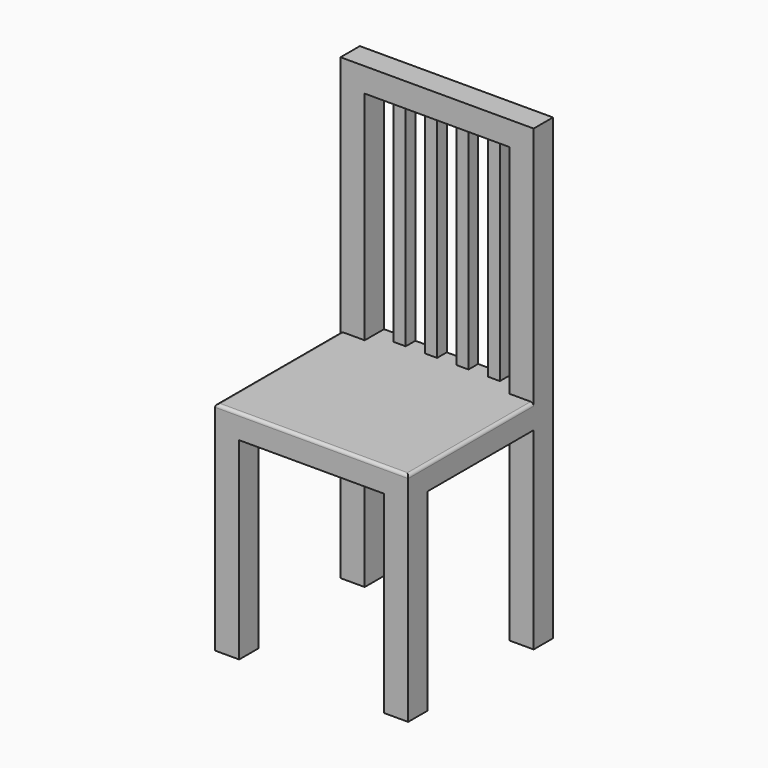
from build123d import *

# Parameters (mm, degrees)
F0_W     = 50.8
F0_H     = 50.8
F1_DEPTH = 406.4
F2_W     = 50.8
F2_H     = 50.8
F3_DEPTH = 50.8
F4_W     = 50.8
F4_H     = 50.8
F4_W_2   = 25.4
F4_H_2   = 25.4
F5_DEPTH = 508
F6_W     = 50.8
F6_H     = 50.8
F7_DEPTH = 355.6
F8_R     = 6.35


with BuildPart() as f1:
    # F0 (on Top) → F1 (new body)
    with BuildSketch(Plane.XY):
        with Locations((-25.4, 25.4)):
            Rectangle(F0_W, F0_H)
        with Locations((330.2, 25.4)):
            Rectangle(F0_W, F0_H)
        with Locations((330.2, -304.8)):
            Rectangle(F0_W, F0_H)
        with Locations((-25.4, -304.8)):
            Rectangle(F0_W, F0_H)
    extrude(amount=F1_DEPTH)

    # F2 (on face) → F3 (join)
    with BuildSketch(Plane.XY.offset(406.4)):
        Polygon((304.8, 0), (304.8, 50.8), (-50.8, 50.8), (-50.8, -330.2), (355.6, -330.2), (355.6, 0), align=None)
        with Locations((330.2, 25.4)):
            Rectangle(F2_W, F2_H)
    extrude(amount=F3_DEPTH)

    # F4 (on face) → F5 (join)
    with BuildSketch(Plane.XY.offset(457.2)):
        with Locations((-25.4, 25.4)):
            Rectangle(F4_W, F4_H)
        with Locations((53.34, 38.1)):
            Rectangle(F4_W_2, F4_H_2)
        with Locations((119.38, 38.1)):
            Rectangle(F4_W_2, F4_H_2)
        with Locations((185.42, 38.1)):
            Rectangle(F4_W_2, F4_H_2)
        with Locations((251.46, 38.1)):
            Rectangle(F4_W_2, F4_H_2)
        with Locations((330.2, 25.4)):
            Rectangle(F4_W, F4_H)
    extrude(amount=F5_DEPTH)

    # F6 (on face) → F7 (join)
    with BuildSketch(Plane.YZ):
        with Locations((25.4, 939.8)):
            Rectangle(F6_W, F6_H)
    extrude(amount=F7_DEPTH)

    # F8
    f8_edges = [f1.edges().sort_by_distance(p)[0] for p in [
        (-50.8, -165.1, 457.2),
        (152.4, -330.2, 457.2),
        (355.6, -165.1, 457.2),
    ]]
    fillet(f8_edges, radius=F8_R)


solid = f1.part
